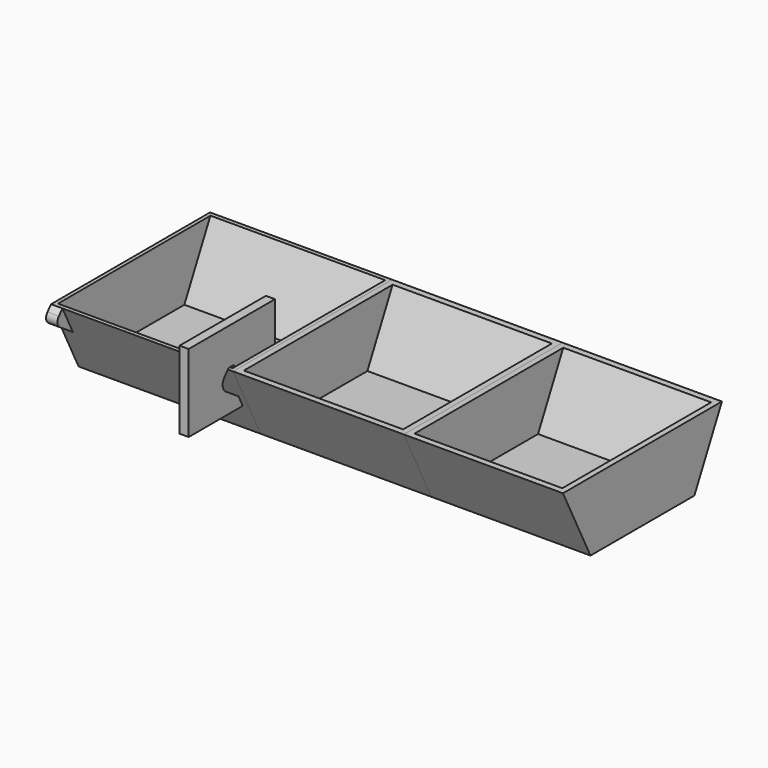
from build123d import *

# Parameters (mm, degrees)
F1_DEPTH  = 80
F3_T      = -1.6
F4_DEPTH  = 75
F5_DEPTH  = 70
F6_T      = -2.5
F7_T      = -2.5
F9_DEPTH  = 5
F10_R     = 3
F12_DEPTH = 4


with BuildPart() as f1:
    # F0 (on Right) → F1 (new body)
    with BuildSketch(Plane.YZ):
        Polygon((0, 30.2703026682), (0, 0), (28.5545513034, 0), (43.6716713011, 30.2703026682), align=None)
    extrude(amount=F1_DEPTH)

    # F2: F1 across face


with BuildPart() as f1_1:
    add(f1.part)
    add(f1.part.mirror(Plane(origin=(40, 0, 15.1351513341), x_dir=(1, 0, 0), z_dir=(0, -1, 0))))

    # F3
    f3_openings = [f1_1.faces().sort_by_distance(p)[0] for p in [
        (40, 0, 30.270303),
    ]]
    offset(amount=F3_T, openings=f3_openings)


with BuildPart() as f4:
    # F4 (new): a face of the model
    f4_faces = [f1_1.part.faces().sort_by_distance(p)[0] for p in [
        (80, 0, 16.191092379),
    ]]
    extrude(f4_faces, amount=F4_DEPTH)


with BuildPart() as f5:
    # F5 (new): a face of the model
    f5_faces = [f4.part.faces().sort_by_distance(p)[0] for p in [
        (155, 0, 16.191092379),
    ]]
    extrude(f5_faces, amount=F5_DEPTH)

    # F7
    f7_openings = [f5.faces().sort_by_distance(p)[0] for p in [
        (190, 0, 30.270303),
    ]]
    offset(amount=F7_T, openings=f7_openings)


with BuildPart() as f4_1:
    add(f4.part)

    # F6
    f6_openings = [f4_1.faces().sort_by_distance(p)[0] for p in [
        (117.5, 0, 30.270303),
    ]]
    offset(amount=F6_T, openings=f6_openings)


with BuildPart() as f1_2:
    add(f1_1.part)

    # F8 (on face) → F9 (join)
    with BuildSketch(Plane(origin=(0, 0, 0), x_dir=(0, -1, 0), z_dir=(-1, 0, 0))):
        Polygon((47.9428991675, 25.4391934723), (43.6716713011, 30.2703026682), (37.9283721854, 18.7700034993), align=None)
    extrude(amount=-F9_DEPTH)

    # F10
    f10_edges = [f1_2.edges().sort_by_distance(p)[0] for p in [
        (2.5, -47.942899, 25.439193),
    ]]
    fillet(f10_edges, radius=F10_R)


with BuildPart() as f12:
    # F11 (on face) → F12 (new body)
    with BuildSketch(Plane(origin=(78.4, 0, 0), x_dir=(0, -1, 0), z_dir=(-1, 0, 0))):
        with BuildLine():
            Line((18.6374253944, 30.2703026682), (40.7654752274, 30.2703026682))
            Line((40.7654752274, 30.2703026682), (41.2648795499, 31.2703026682))
            Line((41.2648795499, 31.2703026682), (44.1223463978, 31.2703026682))
            Line((44.1223463978, 31.2703026682), (46.4135051114, 28.6788141602))
            ThreePointArc((46.4135051114, 28.6788141602), (47.3831889957, 25.5121757921), (45.633918416, 22.7000702056))
            Line((45.633918416, 22.7000702056), (38.7041291926, 18.0851661881))
            Line((38.7041291926, 18.0851661881), (36.3821730553, 13.4357147668))
            Line((36.3821730553, 13.4357147668), (66.0590111629, 13.4357147668))
            Line((66.0590111629, 13.4357147668), (66.0590111629, 47.5241559376))
            Line((66.0590111629, 47.5241559376), (18.6374253944, 47.5241559376))
            Line((18.6374253944, 47.5241559376), (18.6374253944, 30.2703026682))
        make_face()
        Polygon((32.3582092609, 13.4357147668), (40.7654752274, 30.2703026682), (18.6374253944, 30.2703026682), (18.6374253944, 13.4357147668), align=None)
    extrude(amount=F12_DEPTH)


solid = Compound([f5.part, f4_1.part, f1_2.part, f12.part])
